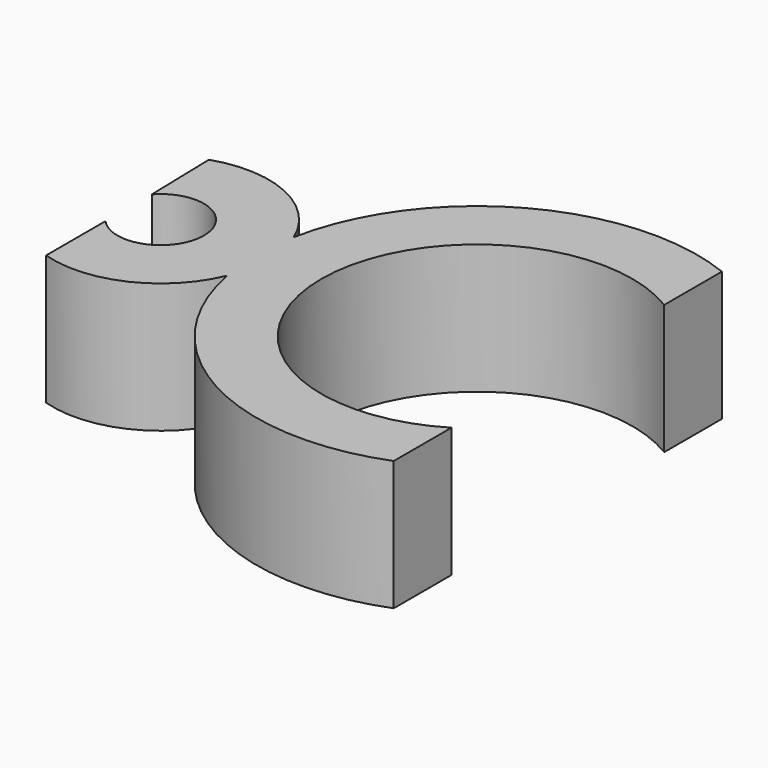
from build123d import *

# Parameters (mm, degrees)
F1_DEPTH = 3


with BuildPart() as f1:
    # F0 (on Top) → F1 (new body)
    with BuildSketch(Plane.XY):
        with BuildLine():
            ThreePointArc((3.175484, -1.698676), (-2.295284, 1.377072), (3.175484, 4.452821))
            Line((3.175484, 4.452821), (3.175484, 6.121567))
            ThreePointArc((3.175484, 6.121567), (-1.151965, 5.846381), (-3.703487, 2.340347))
            ThreePointArc((-3.703487, 2.340347), (-4.972885, 3.651534), (-6.795181, 3.750636))
            Line((-6.795181, 3.750636), (-6.752376, 2.047452))
            ThreePointArc((-6.752376, 2.047452), (-5.010425, 1.376998), (-6.752376, 0.706545))
            Line((-6.752376, 0.706545), (-6.752376, -1.010366))
            ThreePointArc((-6.752376, -1.010366), (-4.952455, -0.888107), (-3.703468, 0.413697))
            ThreePointArc((-3.703468, 0.413697), (-1.15192, -3.092261), (3.175484, -3.367422))
            Line((3.175484, -3.367422), (3.175484, -1.698676))
        make_face()
    extrude(amount=F1_DEPTH)


solid = f1.part
